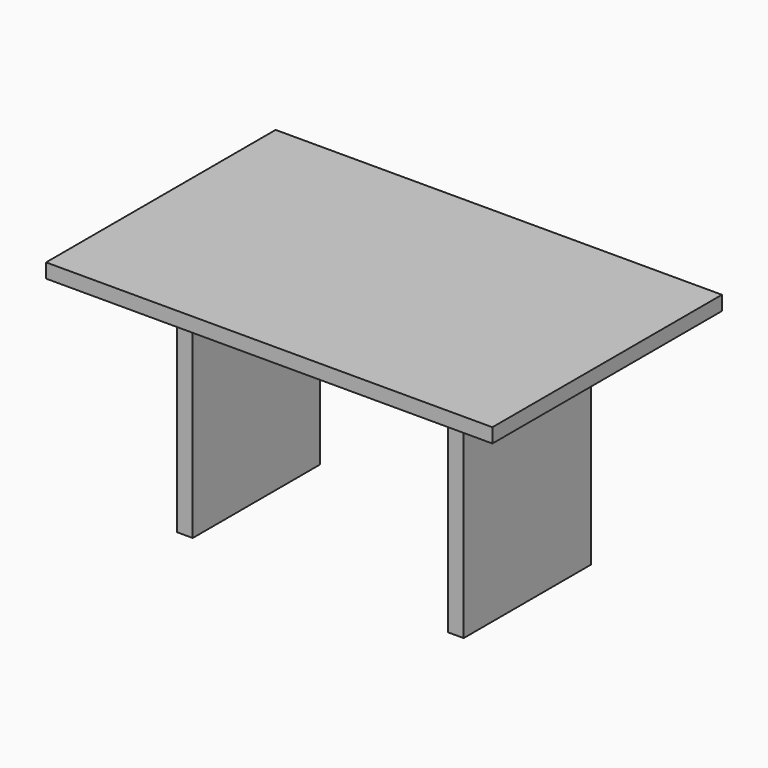
from build123d import *

# Parameters (mm, degrees)
F0_W     = 1400
F0_H     = 900
F1_DEPTH = 45
F2_W     = 50
F2_H     = 500
F3_DEPTH = 700


with BuildPart() as f1:
    # F0 (on Top) → F1 (new body)
    with BuildSketch(Plane.XY):
        Rectangle(F0_W, F0_H)
    extrude(amount=F1_DEPTH)

    # F2 (on face) → F3 (join)
    with BuildSketch(Plane(origin=(0, 0, 0), x_dir=(1, 0, 0), z_dir=(0, 0, -1))):
        with Locations((-425, 0)):
            Rectangle(F2_W, F2_H)
        with Locations((425, 0)):
            Rectangle(F2_W, F2_H)
    extrude(amount=F3_DEPTH)


solid = f1.part
